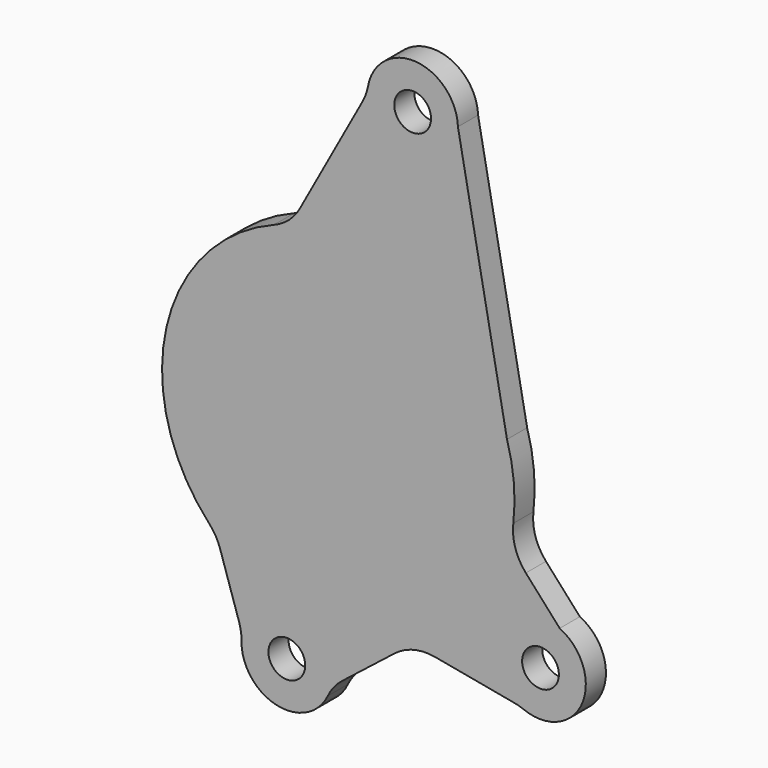
from build123d import *

# Parameters (mm, degrees)
F0_R     = 3.65
F1_DEPTH = 5


with BuildPart() as f1:
    # F0 (on Front) → F1 (new body)
    with BuildSketch(Plane.XZ):
        with BuildLine():
            Line((18.738222, -26.13953), (8.994647, 25.339406))
            ThreePointArc((8.994647, 25.339406), (0.659117, 34.004884), (-8.852828, 26.649989))
            ThreePointArc((-8.852828, 26.649989), (-9.264911, 25.107257), (-9.9173, 23.649785))
            Line((-9.9173, 23.649785), (-22.407404, 0.830026))
            ThreePointArc((-22.407404, 0.830026), (-24.572798, -1.875574), (-27.531595, -3.679662))
            ThreePointArc((-27.531595, -3.679662), (-48.884356, -28.469314), (-40.421234, -60.073789))
            ThreePointArc((-40.421234, -60.073789), (-39.132184, -61.805731), (-38.244918, -63.773987))
            Line((-38.244918, -63.773987), (-34.476732, -75.324515))
            ThreePointArc((-34.476732, -75.324515), (-34.096429, -76.928149), (-33.984688, -78.572467))
            ThreePointArc((-33.984688, -78.572467), (-27.035203, -87.467818), (-16.861534, -82.577107))
            ThreePointArc((-16.861534, -82.577107), (-15.643593, -80.633495), (-14.014829, -79.018525))
            Line((-14.014829, -79.018525), (-3.553493, -70.79486))
            ThreePointArc((-3.553493, -70.79486), (0.233142, -68.947223), (4.444673, -68.823224))
            Line((4.444673, -68.823224), (20.155766, -71.728023))
            ThreePointArc((20.155766, -71.728023), (21.115911, -71.955038), (22.049012, -72.275563))
            ThreePointArc((22.049012, -72.275563), (33.646241, -67.499015), (29.20736, -55.768394))
            Line((29.20736, -55.768394), (22.479737, -48.278609))
            ThreePointArc((22.479737, -48.278609), (20.385469, -44.614186), (19.989534, -40.412139))
            ThreePointArc((19.989534, -40.412139), (20.102008, -33.211121), (18.738222, -26.13953))
        make_face()
        with Locations((-24.985654, -78.704294)):
            Circle(F0_R, mode=Mode.SUBTRACT)
        with Locations((25.389197, -63.918341)):
            Circle(F0_R, mode=Mode.SUBTRACT)
        with Locations((0, 25.029052)):
            Circle(F0_R, mode=Mode.SUBTRACT)
    extrude(amount=F1_DEPTH)


solid = f1.part
